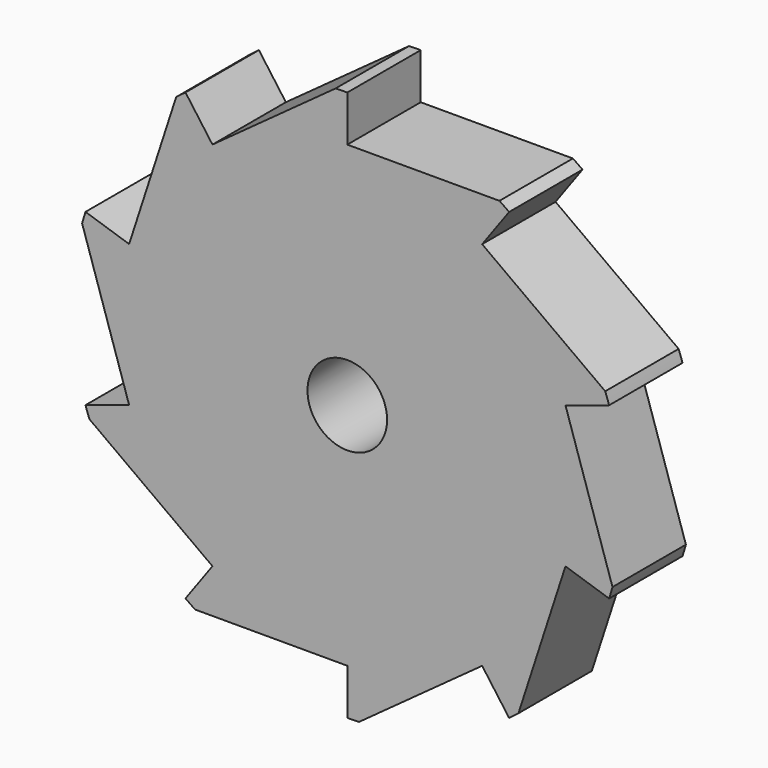
from build123d import *

# Parameters (mm, degrees)
F1_DEPTH = 10
F2_R     = 4.338819
F3_DEPTH = 25


with BuildPart() as f1:
    # F0 (on Front) → F1 (new body)
    with BuildSketch(Plane.XZ):
        with BuildLine():
            Line((14.694631, 20.225425), (17.633558, 24.27051))
            ThreePointArc((17.633558, 24.27051), (17.112228, 24.640853), (16.583124, 25))
            Line((16.583124, 25), (0, 25))
            Line((0, 25), (0, 30))
            ThreePointArc((0, 30), (-0.639446, 29.993184), (-1.278602, 29.972741))
            Line((-1.278602, 29.972741), (-14.694631, 20.225425))
            Line((-14.694631, 20.225425), (-17.633558, 24.27051))
            ThreePointArc((-17.633558, 24.27051), (-18.146874, 23.889139), (-18.651946, 23.496913))
            Line((-18.651946, 23.496913), (-23.776413, 7.725425))
            Line((-23.776413, 7.725425), (-28.531695, 9.27051))
            ThreePointArc((-28.531695, 9.27051), (-28.722813, 8.660254), (-28.90088, 8.046063))
            Line((-28.90088, 8.046063), (-23.776413, -7.725425))
            Line((-23.776413, -7.725425), (-28.531695, -9.27051))
            ThreePointArc((-28.531695, -9.27051), (-28.327614, -9.876553), (-28.11066, -10.478109))
            Line((-28.11066, -10.478109), (-14.694631, -20.225425))
            Line((-14.694631, -20.225425), (-17.633558, -24.27051))
            ThreePointArc((-17.633558, -24.27051), (-17.112228, -24.640853), (-16.583124, -25))
            Line((-16.583124, -25), (0, -25))
            Line((0, -25), (0, -30))
            ThreePointArc((0, -30), (0.639446, -29.993184), (1.278602, -29.972741))
            Line((1.278602, -29.972741), (14.694631, -20.225425))
            Line((14.694631, -20.225425), (17.633558, -24.27051))
            ThreePointArc((17.633558, -24.27051), (18.146874, -23.889139), (18.651946, -23.496913))
            Line((18.651946, -23.496913), (23.776413, -7.725425))
            Line((23.776413, -7.725425), (28.531695, -9.27051))
            ThreePointArc((28.531695, -9.27051), (28.722813, -8.660254), (28.90088, -8.046063))
            Line((28.90088, -8.046063), (23.776413, 7.725425))
            Line((23.776413, 7.725425), (28.531695, 9.27051))
            ThreePointArc((28.531695, 9.27051), (28.327614, 9.876553), (28.11066, 10.478109))
            Line((28.11066, 10.478109), (14.694631, 20.225425))
        make_face()
    extrude(amount=F1_DEPTH)

    # F2 (on Front) → F3 (cut)
    with BuildSketch(Plane.XZ):
        Circle(F2_R)
    extrude(amount=F3_DEPTH, mode=Mode.SUBTRACT)


solid = f1.part
